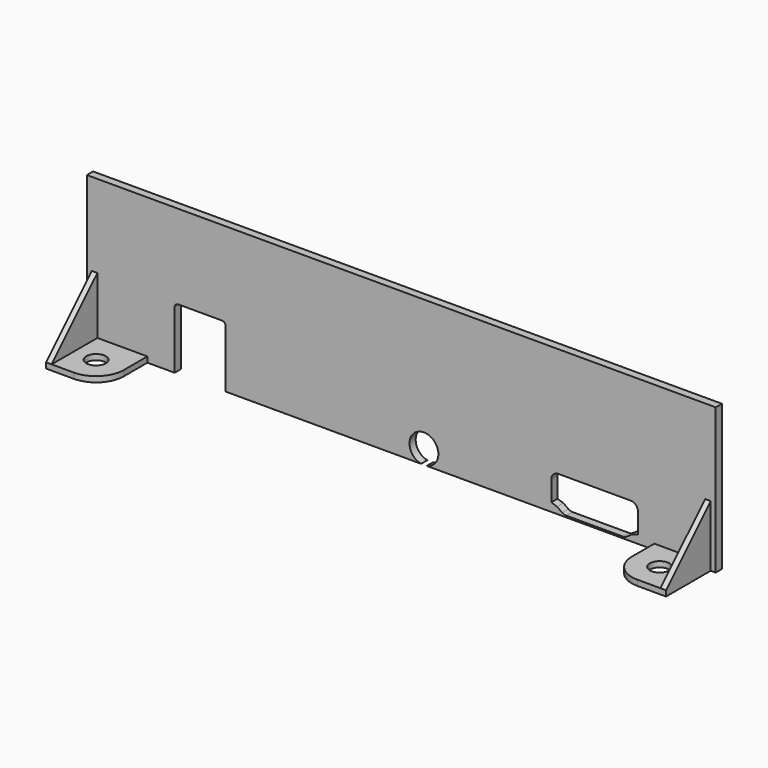
from build123d import *

# Parameters (mm, degrees)
PAD028_DEPTH = 1.4
SKETCH048_R  = 1.75
PAD029_DEPTH = 1
PAD030_DEPTH = 1
PAD031_DEPTH = 1


with BuildPart() as part:
    # Sketch047 (on Face725 of Binder021) → Pad028 (new body)
    with BuildSketch(Plane(origin=(0, 135.8, 0), x_dir=(-1, 0, 0), z_dir=(0, 1, 0))):
        with BuildLine():
            Line((-120.499982, -0.1), (-120.499982, -26.3))
            Line((-120.499982, -26.3), (-68.48194, -26.3))
            ThreePointArc((-67.46705, -26.3), (-67.974495, -21.15), (-68.48194, -26.3))
            Line((-67.46705, -26.3), (-32.299995, -26.3))
            Line((-32.299995, -15.934266), (-32.299995, -26.3))
            ThreePointArc((-31.615729, -15.25), (-32.099578, -15.450417), (-32.299995, -15.934266))
            Line((-31.615729, -15.25), (-23.784261, -15.25))
            ThreePointArc((-23.099995, -15.934266), (-23.300412, -15.450417), (-23.784261, -15.25))
            Line((-23.099995, -15.934266), (-23.099995, -26.3))
            Line((-7.299995, -26.3), (-23.099995, -26.3))
            Line((-7.299995, -26.3), (-7.299995, -0.1))
            Line((-7.299995, -0.1), (-120.499982, -0.1))
        make_face()
        with BuildLine():
            Line((-105.199995, -19.86), (-92.199994, -19.86))
            ThreePointArc((-90.899995, -21.16), (-91.280756, -20.240762), (-92.199994, -19.86))
            Line((-90.899995, -21.16), (-90.899995, -24.776619))
            Line((-90.899995, -24.776619), (-91.938732, -25.120886))
            Line((-91.938732, -25.120886), (-92.869018, -25.773985))
            ThreePointArc((-93.61597, -26.01), (-93.224294, -25.949593), (-92.869018, -25.773985))
            Line((-93.61597, -26.01), (-103.78402, -26.01))
            ThreePointArc((-104.530977, -25.773981), (-104.175699, -25.949592), (-103.78402, -26.01))
            Line((-105.461258, -25.120886), (-104.530977, -25.773981))
            Line((-106.499995, -24.776619), (-105.461258, -25.120886))
            Line((-106.499995, -21.16), (-106.499995, -24.776619))
            ThreePointArc((-105.199995, -19.86), (-106.119234, -20.240761), (-106.499995, -21.16))
        make_face(mode=Mode.SUBTRACT)
    extrude(amount=-PAD028_DEPTH)

    # Sketch048 (on Face5 of Binder022) → Pad029 (join)
    with BuildSketch(Plane.XY.offset(-26.3)):
        with BuildLine():
            Line((18.199995, 134.4), (8.199995, 134.4))
            Line((8.199995, 134.4), (8.199995, 124.1))
            Line((8.199995, 124.1), (13.199995, 124.1))
            ThreePointArc((13.199995, 124.1), (16.735529, 125.564466), (18.199995, 129.1))
            Line((18.199995, 134.4), (18.199995, 129.1))
        make_face()
        with Locations((13.199995, 129.1)):
            Circle(SKETCH048_R, mode=Mode.SUBTRACT)
        with BuildLine():
            Line((109.449995, 134.4), (119.599982, 134.4))
            Line((119.599982, 134.4), (119.599982, 124.35))
            Line((119.599982, 124.35), (114.449995, 124.35))
            ThreePointArc((109.449995, 129.35), (110.914461, 125.814466), (114.449995, 124.35))
            Line((109.449995, 134.4), (109.449995, 129.35))
        make_face()
        with Locations((114.449995, 129.35)):
            Circle(SKETCH048_R, mode=Mode.SUBTRACT)
    extrude(amount=PAD029_DEPTH)

    # Sketch049 (on Face25 of Pad029) → Pad030 (join)
    with BuildSketch(Plane(origin=(8.199995, 0, 0), x_dir=(0, -1, 0), z_dir=(-1, 0, 0))):
        Polygon((-134.4, -25.3), (-124.1, -25.3), (-134.4, -15), align=None)
    extrude(amount=-PAD030_DEPTH)

    # Sketch050 (on Face36 of Pad030) → Pad031 (join)
    with BuildSketch(Plane.YZ.offset(119.599982)):
        Polygon((124.35, -25.3), (134.4, -25.3), (134.4, -15.25), align=None)
    extrude(amount=-PAD031_DEPTH)


solid = part.part
